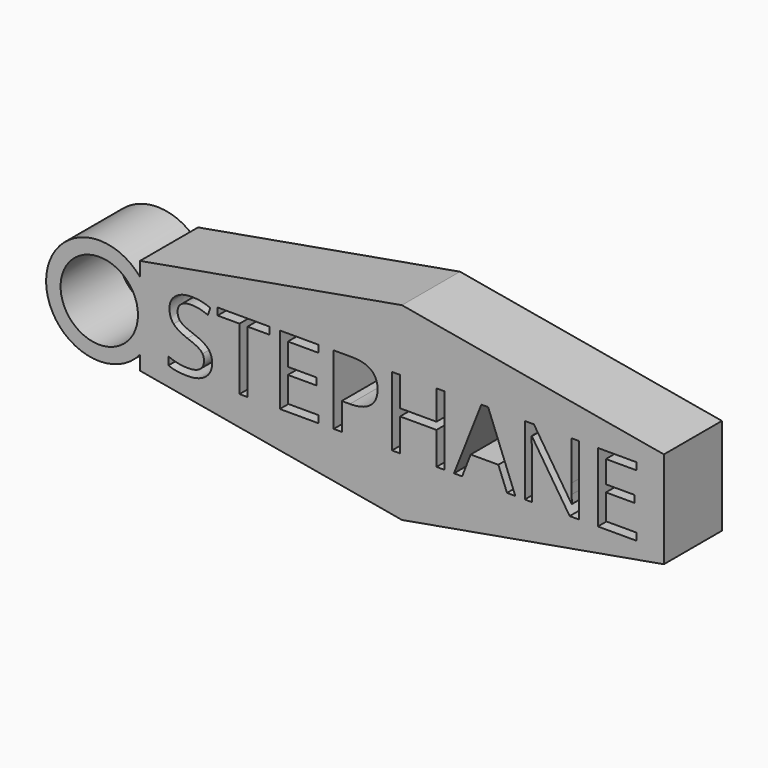
from build123d import *

# Parameters (mm, degrees)
F0_R     = 8
F1_DEPTH = 15


with BuildPart() as f1:
    # F0 (on Front) → F1 (new body)
    with BuildSketch(Plane.XZ):
        Polygon((-21.752604651, 34.6147342483), (-75.9170310667, 25.0640844767), (-75.9170310667, 22.1353372474), (-75.9170310667, 15.0640844767), (-75.9170310667, 7.992831706), (-75.9170310667, 5.0640844767), (-21.752604651, -4.486565295), (32.4118217647, 5.0640844767), (32.4118217647, 25.0640844767), align=None)
        with BuildLine():
            add(Edge.make_bspline(
                [(-61.8588756487, 13.6911544495), (-61.0137733992, 12.770932), (-61.0137733992, 11.3060881009)],
                knots=[0, 0, 0, 1, 1, 1], degree=2))
            add(Edge.make_bspline(
                [(-61.0137733992, 11.3060881009), (-61.0137733992, 9.4186930769), (-62.3831520442, 8.3607502609)],
                knots=[0, 0, 0, 1, 1, 1], degree=2))
            add(Edge.make_bspline(
                [(-62.3831520442, 8.3607502609), (-63.7525306893, 7.3028074448), (-66.1000369379, 7.3028074448)],
                knots=[0, 0, 0, 1, 1, 1], degree=2))
            add(Edge.make_bspline(
                [(-66.1000369379, 7.3028074448), (-68.6416037031, 7.3028074448), (-70.0125473523, 7.9601091945)],
                knots=[0, 0, 0, 1, 1, 1], degree=2))
            Line((-70.0125473523, 7.9601091945), (-70.0125473523, 9.5626734602))
            add(Edge.make_bspline(
                [(-70.0125473523, 9.5626734602), (-69.1298850028, 9.1933324771), (-68.0938522451, 8.9773619022)],
                knots=[0, 0, 0, 1, 1, 1], degree=2))
            add(Edge.make_bspline(
                [(-68.0938522451, 8.9773619022), (-67.0578194874, 8.7613913273), (-66.0405667796, 8.7613913273)],
                knots=[0, 0, 0, 1, 1, 1], degree=2))
            add(Edge.make_bspline(
                [(-66.0405667796, 8.7613913273), (-64.3785323556, 8.7613913273), (-63.5365601144, 9.3920880061)],
                knots=[0, 0, 0, 1, 1, 1], degree=2))
            add(Edge.make_bspline(
                [(-63.5365601144, 9.3920880061), (-62.6945878732, 10.0227846849), (-62.6945878732, 11.1495876843)],
                knots=[0, 0, 0, 1, 1, 1], degree=2))
            add(Edge.make_bspline(
                [(-62.6945878732, 11.1495876843), (-62.6945878732, 11.8913996589), (-62.9935036689, 12.3655959211)],
                knots=[0, 0, 0, 1, 1, 1], degree=2))
            add(Edge.make_bspline(
                [(-62.9935036689, 12.3655959211), (-63.2924194645, 12.8397921833), (-63.9919763266, 13.2419982539)],
                knots=[0, 0, 0, 1, 1, 1], degree=2))
            add(Edge.make_bspline(
                [(-63.9919763266, 13.2419982539), (-64.6915331887, 13.6442043245), (-66.1188169879, 14.1512656742)],
                knots=[0, 0, 0, 1, 1, 1], degree=2))
            add(Edge.make_bspline(
                [(-66.1188169879, 14.1512656742), (-68.1126322951, 14.8649075738), (-68.9686895738, 15.8430351774)],
                knots=[0, 0, 0, 1, 1, 1], degree=2))
            add(Edge.make_bspline(
                [(-68.9686895738, 15.8430351774), (-69.8247468524, 16.821162781), (-69.8247468524, 18.3955569718)],
                knots=[0, 0, 0, 1, 1, 1], degree=2))
            add(Edge.make_bspline(
                [(-69.8247468524, 18.3955569718), (-69.8247468524, 20.0482013708), (-68.583698549, 21.0263289744)],
                knots=[0, 0, 0, 1, 1, 1], degree=2))
            add(Edge.make_bspline(
                [(-68.583698549, 21.0263289744), (-67.3426502455, 22.004456578), (-65.2956247967, 22.004456578)],
                knots=[0, 0, 0, 1, 1, 1], degree=2))
            add(Edge.make_bspline(
                [(-65.2956247967, 22.004456578), (-63.1640891229, 22.004456578), (-61.3737243573, 21.2219544952)],
                knots=[0, 0, 0, 1, 1, 1], degree=2))
            Line((-61.3737243573, 21.2219544952), (-61.8933057403, 19.775890646))
            add(Edge.make_bspline(
                [(-61.8933057403, 19.775890646), (-63.664890456, 20.5177026206), (-65.336314905, 20.5177026206)],
                knots=[0, 0, 0, 1, 1, 1], degree=2))
            add(Edge.make_bspline(
                [(-65.336314905, 20.5177026206), (-66.6571784209, 20.5177026206), (-67.4005553997, 19.9511711126)],
                knots=[0, 0, 0, 1, 1, 1], degree=2))
            add(Edge.make_bspline(
                [(-67.4005553997, 19.9511711126), (-68.1439323784, 19.3846396045), (-68.1439323784, 18.3767769218)],
                knots=[0, 0, 0, 1, 1, 1], degree=2))
            add(Edge.make_bspline(
                [(-68.1439323784, 18.3767769218), (-68.1439323784, 17.6349649472), (-67.8700566494, 17.1592036808)],
                knots=[0, 0, 0, 1, 1, 1], degree=2))
            add(Edge.make_bspline(
                [(-67.8700566494, 17.1592036808), (-67.5961809204, 16.6834424144), (-66.9451391874, 16.2874963605)],
                knots=[0, 0, 0, 1, 1, 1], degree=2))
            add(Edge.make_bspline(
                [(-66.9451391874, 16.2874963605), (-66.2940974545, 15.8915503066), (-64.9544538886, 15.4126590318)],
                knots=[0, 0, 0, 1, 1, 1], degree=2))
            add(Edge.make_bspline(
                [(-64.9544538886, 15.4126590318), (-62.7039778982, 14.611376899), (-61.8588756487, 13.6911544495)],
                knots=[0, 0, 0, 1, 1, 1], degree=2))
        make_face(mode=Mode.SUBTRACT)
        Polygon((-53.6864238951, 20.323642104), (-53.6864238951, 7.4999979697), (-55.3484583191, 7.4999979697), (-55.3484583191, 20.323642104), (-59.8775803748, 20.323642104), (-59.8775803748, 21.8010060365), (-49.1573018393, 21.8010060365), (-49.1573018393, 20.323642104), align=None, mode=Mode.SUBTRACT)
        Polygon((-39.0317248868, 8.9867519272), (-39.0317248868, 7.4999979697), (-47.0038561072, 7.4999979697), (-47.0038561072, 21.8010060365), (-39.0317248868, 21.8010060365), (-39.0317248868, 20.323642104), (-45.3418216832, 20.323642104), (-45.3418216832, 15.71626984), (-39.4135859033, 15.71626984), (-39.4135859033, 14.2482959325), (-45.3418216832, 14.2482959325), (-45.3418216832, 8.9867519272), align=None, mode=Mode.SUBTRACT)
        with BuildLine():
            add(Edge.make_bspline(
                [(-32.1550965825, 21.8010060365), (-26.7965223189, 21.8010060365), (-26.7965223189, 17.6349649472)],
                knots=[0, 0, 0, 1, 1, 1], degree=2))
            add(Edge.make_bspline(
                [(-26.7965223189, 17.6349649472), (-26.7965223189, 15.4627391651), (-28.2785812638, 14.2936810533)],
                knots=[0, 0, 0, 1, 1, 1], degree=2))
            add(Edge.make_bspline(
                [(-28.2785812638, 14.2936810533), (-29.7606402088, 13.1246229415), (-32.5181775489, 13.1246229415)],
                knots=[0, 0, 0, 1, 1, 1], degree=2))
            Line((-32.5181775489, 13.1246229415), (-34.2021220313, 13.1246229415))
            Line((-34.2021220313, 13.1246229415), (-34.2021220313, 7.4999979697))
            Line((-34.2021220313, 7.4999979697), (-35.8641564553, 7.4999979697))
            Line((-35.8641564553, 7.4999979697), (-35.8641564553, 21.8010060365))
            Line((-35.8641564553, 21.8010060365), (-32.1550965825, 21.8010060365))
        make_face(mode=Mode.SUBTRACT)
        Polygon((-12.9462354518, 21.8010060365), (-12.9462354518, 7.4999979697), (-14.6082698759, 7.4999979697), (-14.6082698759, 14.2295158825), (-22.1421999299, 14.2295158825), (-22.1421999299, 7.4999979697), (-23.8042343539, 7.4999979697), (-23.8042343539, 21.8010060365), (-22.1421999299, 21.8010060365), (-22.1421999299, 15.71626984), (-14.6082698759, 15.71626984), (-14.6082698759, 21.8010060365), align=None, mode=Mode.SUBTRACT)
        Polygon((1.6865534981, 7.4999979697), (-0.0349510843, 7.4999979697), (-1.8159258249, 12.0479000754), (-7.5469710799, 12.0479000754), (-9.3060357623, 7.4999979697), (-10.9899802446, 7.4999979697), (-5.3371851979, 21.8604761948), (-3.9380714737, 21.8604761948), align=None, mode=Mode.SUBTRACT)
        with BuildLine():
            Line((14.8231984655, 21.8010060365), (14.8231984655, 7.4999979697))
            Line((14.8231984655, 7.4999979697), (12.9264134166, 7.4999979697))
            Line((12.9264134166, 7.4999979697), (5.1107826128, 19.5004499128))
            Line((5.1107826128, 19.5004499128), (5.0325324045, 19.5004499128))
            add(Edge.make_bspline(
                [(5.0325324045, 19.5004499128), (5.1890328211, 17.387694289), (5.1890328211, 15.6286296067)],
                knots=[0, 0, 0, 1, 1, 1], degree=2))
            Line((5.1890328211, 15.6286296067), (5.1890328211, 7.4999979697))
            Line((5.1890328211, 7.4999979697), (3.6521987303, 7.4999979697))
            Line((3.6521987303, 7.4999979697), (3.6521987303, 21.8010060365))
            Line((3.6521987303, 21.8010060365), (5.5302037292, 21.8010060365))
            Line((5.5302037292, 21.8010060365), (13.327054483, 9.8475042184))
            Line((13.327054483, 9.8475042184), (13.4053046913, 9.8475042184))
            add(Edge.make_bspline(
                [(13.4053046913, 9.8475042184), (13.3865246413, 10.1104249182), (13.317664458, 11.5439687341)],
                knots=[0, 0, 0, 1, 1, 1], degree=2))
            add(Edge.make_bspline(
                [(13.317664458, 11.5439687341), (13.2488042748, 12.9775125499), (13.2675843247, 13.5941241912)],
                knots=[0, 0, 0, 1, 1, 1], degree=2))
            Line((13.2675843247, 13.5941241912), (13.2675843247, 21.8010060365))
            Line((13.2675843247, 21.8010060365), (14.8231984655, 21.8010060365))
        make_face(mode=Mode.SUBTRACT)
        Polygon((26.7266201503, 8.9867519272), (26.7266201503, 7.4999979697), (18.7544889299, 7.4999979697), (18.7544889299, 21.8010060365), (26.7266201503, 21.8010060365), (26.7266201503, 20.323642104), (20.416523354, 20.323642104), (20.416523354, 15.71626984), (26.3447591339, 15.71626984), (26.3447591339, 14.2482959325), (20.416523354, 14.2482959325), (20.416523354, 8.9867519272), align=None, mode=Mode.SUBTRACT)
        with BuildLine():
            Line((-75.9170310667, 15.0640844767), (-75.9170310667, 22.1353372474))
            ThreePointArc((-75.9170310667, 22.1353372474), (-95.3430256224, 15.0640844767), (-75.9170310667, 7.992831706))
            Line((-75.9170310667, 7.992831706), (-75.9170310667, 15.0640844767))
        make_face()
        with Locations((-84.3430256224, 15.0640844767)):
            Circle(F0_R, mode=Mode.SUBTRACT)
    extrude(amount=F1_DEPTH)


solid = f1.part
